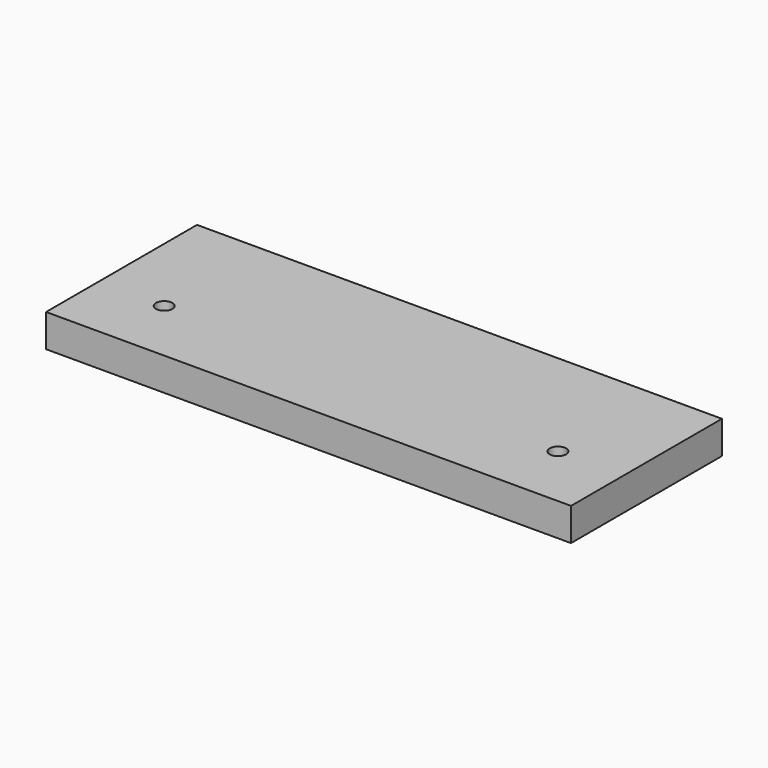
from build123d import *

# Parameters (mm, degrees)
F0_W     = 203.2
F0_H     = 73.025
F1_DEPTH = 12.7
F3_DEPTH = 25.4


with BuildPart() as f1:
    # F0 (on Top) → F1 (new body)
    with BuildSketch(Plane.XY):
        with Locations((-101.6, 36.5125)):
            Rectangle(F0_W, F0_H)
    extrude(amount=F1_DEPTH)

    # F2 (on face) → F3 (cut)
    with BuildSketch(Plane.XY.offset(12.7)):
        with BuildLine():
            Line((-177.8, 25.4), (-180.975, 25.4))
            ThreePointArc((-180.975, 25.4), (-177.8, 22.225), (-174.625, 25.4))
            Line((-174.625, 25.4), (-177.8, 25.4))
        make_face()
        with BuildLine():
            ThreePointArc((-174.625, 25.4), (-177.8, 28.575), (-180.975, 25.4))
            Line((-180.975, 25.4), (-177.8, 25.4))
            Line((-177.8, 25.4), (-174.625, 25.4))
        make_face()
        with BuildLine():
            ThreePointArc((-28.575, 25.4), (-25.4, 22.225), (-22.225, 25.4))
            Line((-22.225, 25.4), (-25.4, 25.4))
            Line((-25.4, 25.4), (-28.575, 25.4))
        make_face()
        with BuildLine():
            Line((-25.4, 25.4), (-22.225, 25.4))
            ThreePointArc((-22.225, 25.4), (-25.4, 28.575), (-28.575, 25.4))
            Line((-28.575, 25.4), (-25.4, 25.4))
        make_face()
    extrude(amount=-F3_DEPTH, mode=Mode.SUBTRACT)


solid = f1.part
